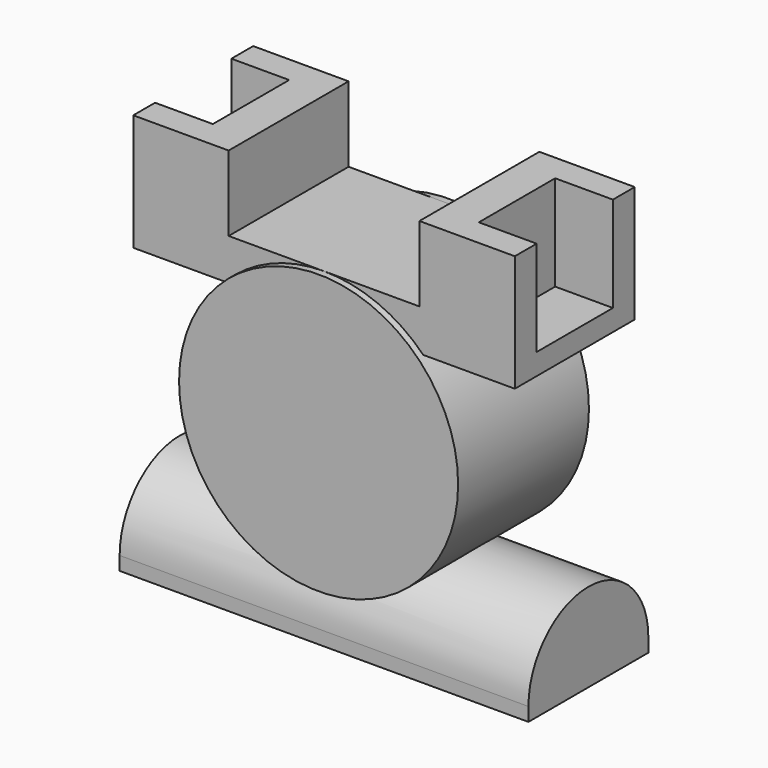
from build123d import *

# Parameters (mm, degrees)
F0_R     = 65.024
F1_DEPTH = 38.1
F3_DEPTH = 95.25
F4_W     = 44.45
F4_H     = 35.052
F5_DEPTH = 34.925
F6_W     = 57.531
F6_H     = 44.45
F6_W_2   = 26.924
F6_H_2   = 22.225
F7_DEPTH = 44.45


with BuildPart() as f1:
    # F0 (on Front) → F1 (new body, symmetric)
    with BuildSketch(Plane.XZ):
        Circle(F0_R)
    extrude(amount=F1_DEPTH, both=True)

    # F2 (on Right) → F3 (join, symmetric)
    with BuildSketch(Plane.YZ):
        with BuildLine():
            Line((34.925, -88.9), (34.925, -82.55))
            ThreePointArc((34.925, -82.55), (24.6957043329, -57.8542956671), (0, -47.625))
            ThreePointArc((0, -47.625), (-24.6957043329, -57.8542956671), (-34.925, -82.55))
            Line((-34.925, -82.55), (-34.925, -88.9))
            Line((-34.925, -88.9), (34.925, -88.9))
        make_face()
    extrude(amount=F3_DEPTH, both=True)

    # F4 (on Front) → F5 (join, symmetric)
    with BuildSketch(Plane.XZ):
        Polygon((-88.9, 45.72), (0, 45.72), (0, 65.024), (-44.45, 65.024), (-44.45, 100.076), (-88.9, 100.076), align=None)
        with Locations((66.675, 82.55)):
            Rectangle(F4_W, F4_H)
        Polygon((0, 65.024), (0, 45.72), (88.9, 45.72), (88.9, 65.024), (44.45, 65.024), align=None)
    extrude(amount=F5_DEPTH, both=True)

    # F6 (on face) → F7 (cut)
    with BuildSketch(Plane.XY.offset(100.076)):
        with Locations((-90.7415, 0)):
            Rectangle(F6_W, F6_H)
        with Locations((75.438, -11.1125)):
            Rectangle(F6_W_2, F6_H_2)
        with Locations((75.438, 11.1125)):
            Rectangle(F6_W_2, F6_H_2)
    extrude(amount=-F7_DEPTH, mode=Mode.SUBTRACT)


solid = f1.part
